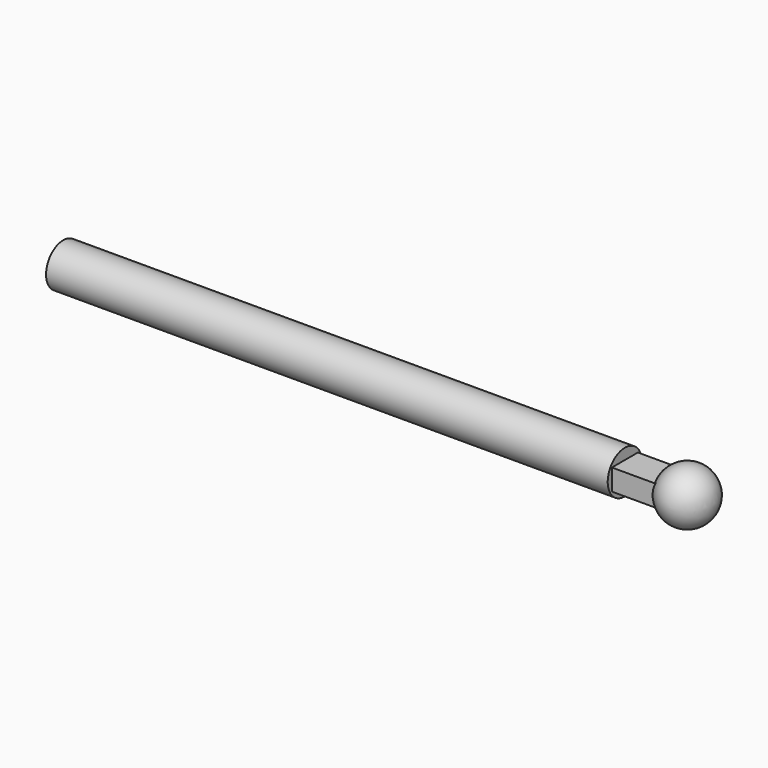
from build123d import *

# Parameters (mm, degrees)
PAD_DEPTH    = 0.245
SKETCH003_R  = 0.495763
PAD001_DEPTH = 12.96675


with BuildPart() as part:
    # Sketch → Pad (new body, symmetric)
    with BuildSketch(Plane.XY):
        with BuildLine():
            Line((0, 0.375), (14.4075, 0.375))
            ThreePointArc((14.4075, -0.375), (14.7825, 0), (14.4075, 0.375))
            Line((14.4075, -0.375), (0, -0.375))
            Line((0, 0), (0, -0.375))
            Line((0, 0.375), (0, 0))
        make_face()
    extrude(amount=PAD_DEPTH, both=True)

    # Sketch002 → Revolution001 (revolve)
    with BuildSketch(Plane.XY):
        with BuildLine():
            ThreePointArc((14.4075, -0.625), (15.0325, 0), (14.4075, 0.625))
            Line((14.4075, 0.625), (14.4075, 0))
            Line((14.4075, 0), (14.4075, -0.625))
        make_face()
    revolve(axis=Axis((14.4075, 0, 0), (0, -1, 0)))

    # Sketch003 → Pad001 (join)
    with BuildSketch(Plane.YZ):
        Circle(SKETCH003_R)
    extrude(amount=PAD001_DEPTH)


solid = part.part
